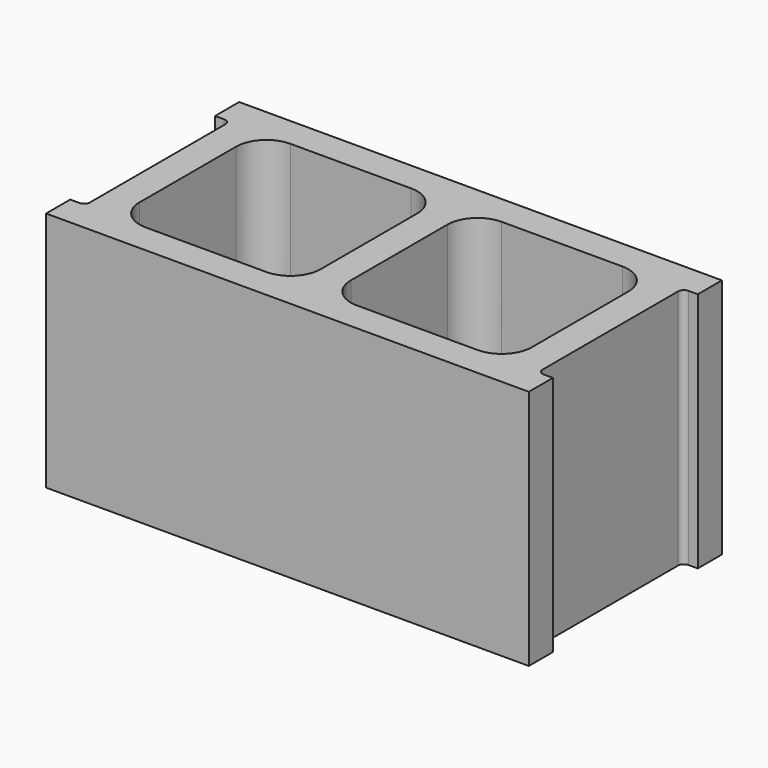
from build123d import *

# Parameters (mm, degrees)
F0_W     = 152.4
F0_H     = 152.4
F1_DEPTH = 203.2
F2_R     = 25.4
F3_R     = 5


with BuildPart() as f1:
    # F0 (on Top) → F1 (new body)
    with BuildSketch(Plane.XY):
        Polygon((203.2, 101.6), (-203.2, 101.6), (-203.2, 76.2), (-190.5, 76.2), (-190.5, -76.2), (-203.2, -76.2), (-203.2, -101.6), (203.2, -101.6), (203.2, -76.2), (190.5, -76.2), (190.5, 76.2), (203.2, 76.2), align=None)
        with Locations((-88.9, 0)):
            Rectangle(F0_W, F0_H, mode=Mode.SUBTRACT)
        with Locations((88.9, 0)):
            Rectangle(F0_W, F0_H, mode=Mode.SUBTRACT)
    extrude(amount=F1_DEPTH)

    # F2
    f2_edges = [f1.edges().sort_by_distance(p)[0] for p in [
        (-165.1, 76.2, 101.6),
        (-165.1, -76.2, 101.6),
        (12.7, -76.2, 101.6),
        (12.7, 76.2, 101.6),
        (165.1, 76.2, 101.6),
        (165.1, -76.2, 101.6),
        (-12.7, 76.2, 101.6),
        (-12.7, -76.2, 101.6),
    ]]
    fillet(f2_edges, radius=F2_R)

    # F3
    f3_edges = [f1.edges().sort_by_distance(p)[0] for p in [
        (-190.5, 76.2, 101.6),
        (-190.5, -76.2, 101.6),
        (190.5, 76.2, 101.6),
        (190.5, -76.2, 101.6),
    ]]
    fillet(f3_edges, radius=F3_R)


solid = f1.part
